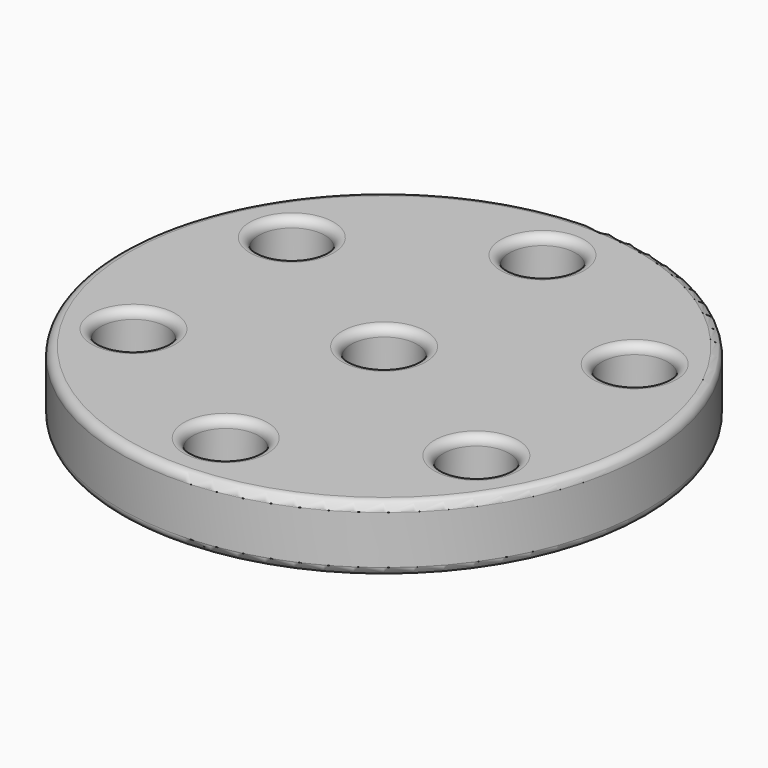
from build123d import *

# Parameters (mm, degrees)
F0_R     = 76.2
F0_R_2   = 9.525
F1_DEPTH = 19.05
F2_R     = 2.54
F3_R     = 2.54


with BuildPart() as f1:
    # F0 (on Top) → F1 (new body)
    with BuildSketch(Plane.XY):
        Circle(F0_R)
        with Locations((-49.493352, -28.575)):
            Circle(F0_R_2, mode=Mode.SUBTRACT)
        with Locations((0, -57.15)):
            Circle(F0_R_2, mode=Mode.SUBTRACT)
        with Locations((49.493352, -28.575)):
            Circle(F0_R_2, mode=Mode.SUBTRACT)
        with Locations((-49.493352, 28.575)):
            Circle(F0_R_2, mode=Mode.SUBTRACT)
        Circle(F0_R_2, mode=Mode.SUBTRACT)
        with Locations((49.493352, 28.575)):
            Circle(F0_R_2, mode=Mode.SUBTRACT)
        with Locations((0, 57.15)):
            Circle(F0_R_2, mode=Mode.SUBTRACT)
    extrude(amount=F1_DEPTH)

    # F2
    f2_edges = [f1.edges().sort_by_distance(p)[0] for p in [
        (-59.018352, 28.575, 19.05),
        (-9.525, 57.15, 19.05),
        (39.968352, 28.575, 19.05),
        (39.968352, -28.575, 19.05),
        (-9.525, -57.15, 19.05),
        (-59.018352, -28.575, 19.05),
        (-9.525, 0, 19.05),
        (-59.018352, 28.575, 0),
        (-59.018352, -28.575, 0),
        (-9.525, 0, 0),
        (-9.525, 57.15, 0),
        (39.968352, 28.575, 0),
        (39.968352, -28.575, 0),
        (-9.525, -57.15, 0),
    ]]
    fillet(f2_edges, radius=F2_R)

    # F3
    f3_edges = [f1.edges().sort_by_distance(p)[0] for p in [
        (-76.2, 0, 0),
        (-76.2, 0, 19.05),
    ]]
    fillet(f3_edges, radius=F3_R)


solid = f1.part
